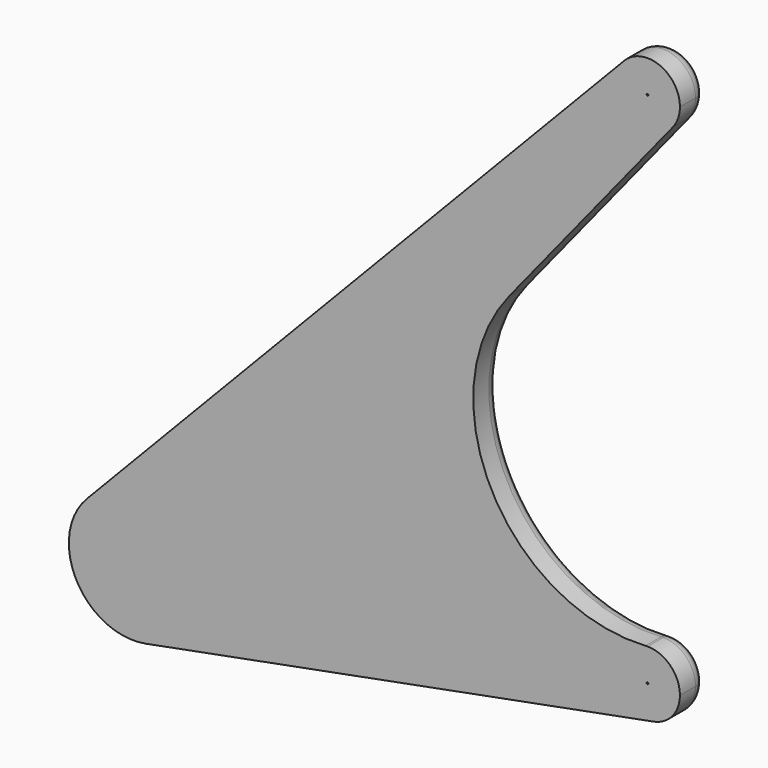
from build123d import *

# Parameters (mm, degrees)
F1_DEPTH = 25
F2_D     = 28
F2_DEPTH = 17
F2_TIP   = 8.4120486664
F3_D     = 28
F3_DEPTH = 17
F3_TIP   = 8.4120486664
F4_R     = 10
F5_DEPTH = 25


with BuildPart() as f1:
    # F0 (on Front) → F1 (new body)
    with BuildSketch(Plane.XZ):
        with BuildLine():
            Line((-279.2028378171, 167.9137703829), (54.3474347586, 546.1242293713))
            ThreePointArc((54.3474347586, 546.1242293713), (45.905243427, 563.8289204578), (52.8386613021, 582.1770647105))
            Line((52.8386613021, 582.1770647105), (-362.0687545083, 149.4799000496))
            ThreePointArc((-362.0687545083, 149.4799000496), (-347.0310263397, 160.2264674692), (-329.1166074138, 164.7757063423))
            Line((-329.1166074138, 164.7757063423), (-279.2028378171, 167.9137703829))
        make_face()
        with BuildLine():
            ThreePointArc((70.8833804527, 539.8742293713), (62.0445456879, 541.488870704), (54.3474347586, 546.1242293713))
            Line((54.3474347586, 546.1242293713), (-279.2028378171, 167.9137703829))
            Line((-279.2028378171, 167.9137703829), (-215.3865282422, 171.9258830303))
            Line((-215.3865282422, 171.9258830303), (-35.7808883073, 393.5494389695))
            Line((-35.7808883073, 393.5494389695), (70.8833804527, 525.16732437))
            Line((70.8833804527, 525.16732437), (70.8833804527, 539.8742293713))
        make_face()
        with BuildLine():
            Line((-215.3865282422, 171.9258830303), (-279.2028378171, 167.9137703829))
            Line((-279.2028378171, 167.9137703829), (-292.9074248186, 152.3742293713))
            ThreePointArc((-292.9074248186, 152.3742293713), (-281.7851423828, 138.2595880387), (-276.3714791245, 121.1242293713))
            Line((-276.3714791245, 121.1242293713), (-254.3034374995, 123.904541279))
            Line((-254.3034374995, 123.904541279), (-215.3865282422, 171.9258830303))
        make_face()
        with BuildLine():
            Line((-35.7808883073, 393.5494389695), (-215.3865282422, 171.9258830303))
            Line((-215.3865282422, 171.9258830303), (69.3147348493, 189.8249678568))
            ThreePointArc((69.3147348493, 189.8249678568), (-49.7750455866, 257.3601064033), (-35.7808883073, 393.5494389695))
        make_face()
        with BuildLine():
            Line((54.3474347586, 546.1242293713), (61.788610321, 554.5617293713))
            ThreePointArc((61.788610321, 554.5617293713), (65.226110321, 577.4064995031), (84.6333804527, 564.8742293713))
            ThreePointArc((84.6333804527, 564.8742293713), (80.6060986941, 555.15151113), (70.8833804527, 551.1242293713))
            Line((70.8833804527, 551.1242293713), (70.8833804527, 539.8742293713))
            ThreePointArc((70.8833804527, 539.8742293713), (81.64190304, 542.3075683037), (90.3060950779, 549.1338940322))
            ThreePointArc((90.3060950779, 549.1338940322), (94.4478437994, 556.5246145787), (95.8833804527, 564.8742293713))
            ThreePointArc((95.8833804527, 564.8742293713), (80.2075968068, 588.0703279524), (52.8386613021, 582.1770647105))
            ThreePointArc((52.8386613021, 582.1770647105), (45.905243427, 563.8289204578), (54.3474347586, 546.1242293713))
        make_face()
        with BuildLine():
            ThreePointArc((70.8833804527, 551.1242293713), (66.0220213321, 552.0122821043), (61.788610321, 554.5617293713))
            Line((61.788610321, 554.5617293713), (54.3474347586, 546.1242293713))
            ThreePointArc((54.3474347586, 546.1242293713), (62.0445456879, 541.488870704), (70.8833804527, 539.8742293713))
            Line((70.8833804527, 539.8742293713), (70.8833804527, 551.1242293713))
        make_face()
        with BuildLine():
            Line((70.8833804527, 551.1242293713), (70.8833804527, 564.8742293713))
            Line((70.8833804527, 564.8742293713), (61.788610321, 554.5617293713))
            ThreePointArc((61.788610321, 554.5617293713), (66.0220213321, 552.0122821043), (70.8833804527, 551.1242293713))
        make_face()
        with BuildLine():
            Line((61.788610321, 554.5617293713), (70.8833804527, 564.8742293713))
            Line((70.8833804527, 564.8742293713), (70.8833804527, 551.1242293713))
            ThreePointArc((70.8833804527, 551.1242293713), (80.6060986941, 555.15151113), (84.6333804527, 564.8742293713))
            ThreePointArc((84.6333804527, 564.8742293713), (65.226110321, 577.4064995031), (61.788610321, 554.5617293713))
        make_face()
        with BuildLine():
            Line((69.3147348493, 189.8249678568), (-215.3865282422, 171.9258830303))
            Line((-215.3865282422, 171.9258830303), (-254.3034374995, 123.904541279))
            Line((-254.3034374995, 123.904541279), (46.0794619115, 161.7492293713))
            ThreePointArc((46.0794619115, 161.7492293713), (51.6235827444, 180.8134951083), (69.3147348493, 189.8249678568))
        make_face()
        with BuildLine():
            Line((-325.9793162069, 114.8742293713), (-306.136181374, 137.3742293713))
            ThreePointArc((-306.136181374, 137.3742293713), (-353.3224510399, 102.5310945383), (-295.9793162069, 114.8742293713))
            ThreePointArc((-295.9793162069, 114.8742293713), (-296.0381984298, 116.7529167476), (-296.2146139575, 118.6242293713))
            Line((-296.2146139575, 118.6242293713), (-325.9793162069, 114.8742293713))
        make_face()
        with BuildLine():
            Line((-306.136181374, 137.3742293713), (-292.9074248186, 152.3742293713))
            ThreePointArc((-292.9074248186, 152.3742293713), (-309.7784140786, 162.1767744427), (-329.1166074138, 164.7757063423))
            ThreePointArc((-329.1166074138, 164.7757063423), (-347.0310263397, 160.2264674692), (-362.0687545083, 149.4799000496))
            ThreePointArc((-362.0687545083, 149.4799000496), (-369.9271571596, 91.0291612104), (-316.6410453648, 65.7540024004))
            ThreePointArc((-316.6410453648, 65.7540024004), (-300.3237958419, 71.9580986651), (-287.1338869566, 83.3935586931))
            ThreePointArc((-287.1338869566, 83.3935586931), (-278.8503895137, 98.1749997861), (-275.9793162069, 114.8742293713))
            ThreePointArc((-275.9793162069, 114.8742293713), (-276.0774532451, 118.0053749985), (-276.3714791245, 121.1242293713))
            Line((-276.3714791245, 121.1242293713), (-296.2146139575, 118.6242293713))
            ThreePointArc((-296.2146139575, 118.6242293713), (-296.0381984298, 116.7529167476), (-295.9793162069, 114.8742293713))
            ThreePointArc((-295.9793162069, 114.8742293713), (-353.3224510399, 102.5310945383), (-306.136181374, 137.3742293713))
        make_face()
        with BuildLine():
            ThreePointArc((-276.3714791245, 121.1242293713), (-281.7851423828, 138.2595880387), (-292.9074248186, 152.3742293713))
            Line((-292.9074248186, 152.3742293713), (-306.136181374, 137.3742293713))
            ThreePointArc((-306.136181374, 137.3742293713), (-299.4628119124, 128.9054445717), (-296.2146139575, 118.6242293713))
            Line((-296.2146139575, 118.6242293713), (-276.3714791245, 121.1242293713))
        make_face()
        with BuildLine():
            Line((-292.9074248186, 152.3742293713), (-279.2028378171, 167.9137703829))
            Line((-279.2028378171, 167.9137703829), (-329.1166074138, 164.7757063423))
            ThreePointArc((-329.1166074138, 164.7757063423), (-309.7784140786, 162.1767744427), (-292.9074248186, 152.3742293713))
        make_face()
        with BuildLine():
            Line((-254.3034374995, 123.904541279), (-276.3714791245, 121.1242293713))
            ThreePointArc((-276.3714791245, 121.1242293713), (-276.0774532451, 118.0053749985), (-275.9793162069, 114.8742293713))
            ThreePointArc((-275.9793162069, 114.8742293713), (-278.8503895137, 98.1749997861), (-287.1338869566, 83.3935586931))
            Line((-287.1338869566, 83.3935586931), (-254.3034374995, 123.904541279))
        make_face()
        with BuildLine():
            Line((46.0794619115, 161.7492293713), (-254.3034374995, 123.904541279))
            Line((-254.3034374995, 123.904541279), (-287.1338869566, 83.3935586931))
            ThreePointArc((-287.1338869566, 83.3935586931), (-300.3237958419, 71.9580986651), (-316.6410453648, 65.7540024004))
            Line((-316.6410453648, 65.7540024004), (75.5525158738, 140.3141158858))
            ThreePointArc((75.5525158738, 140.3141158858), (56.1790139122, 144.6558811539), (46.0794619115, 161.7492293713))
        make_face()
        with BuildLine():
            ThreePointArc((-296.2146139575, 118.6242293713), (-299.4628119124, 128.9054445717), (-306.136181374, 137.3742293713))
            Line((-306.136181374, 137.3742293713), (-325.9793162069, 114.8742293713))
            Line((-325.9793162069, 114.8742293713), (-296.2146139575, 118.6242293713))
        make_face()
        with BuildLine():
            ThreePointArc((70.8833804527, 189.8742293713), (70.098670996, 189.8619109578), (69.3147348493, 189.8249678568))
            ThreePointArc((69.3147348493, 189.8249678568), (51.6235827444, 180.8134951083), (46.0794619115, 161.7492293713))
            Line((46.0794619115, 161.7492293713), (57.2412252551, 163.1554793713))
            ThreePointArc((57.2412252551, 163.1554793713), (60.5708804527, 173.9689995031), (70.8833804527, 178.6242293713))
            Line((70.8833804527, 178.6242293713), (70.8833804527, 189.8742293713))
        make_face()
        with BuildLine():
            ThreePointArc((70.8833804527, 178.6242293713), (60.5708804527, 173.9689995031), (57.2412252551, 163.1554793713))
            Line((57.2412252551, 163.1554793713), (70.8833804527, 164.8742293713))
            Line((70.8833804527, 164.8742293713), (70.8833804527, 178.6242293713))
        make_face()
        with BuildLine():
            Line((70.8833804527, 164.8742293713), (57.2412252551, 163.1554793713))
            ThreePointArc((57.2412252551, 163.1554793713), (71.7444455002, 151.1512170568), (84.6333804527, 164.8742293713))
            ThreePointArc((84.6333804527, 164.8742293713), (80.6060986941, 174.5969476126), (70.8833804527, 178.6242293713))
            Line((70.8833804527, 178.6242293713), (70.8833804527, 164.8742293713))
        make_face()
        with BuildLine():
            Line((57.2412252551, 163.1554793713), (46.0794619115, 161.7492293713))
            ThreePointArc((46.0794619115, 161.7492293713), (56.1790139122, 144.6558811539), (75.5525158738, 140.3141158858))
            ThreePointArc((75.5525158738, 140.3141158858), (90.1412150341, 148.9325918382), (95.8833804527, 164.8742293713))
            ThreePointArc((95.8833804527, 164.8742293713), (88.5610499824, 182.551898901), (70.8833804527, 189.8742293713))
            Line((70.8833804527, 189.8742293713), (70.8833804527, 178.6242293713))
            ThreePointArc((70.8833804527, 178.6242293713), (80.6060986941, 174.5969476126), (84.6333804527, 164.8742293713))
            ThreePointArc((84.6333804527, 164.8742293713), (71.7444455002, 151.1512170568), (57.2412252551, 163.1554793713))
        make_face()
        with BuildLine():
            ThreePointArc((90.3060950779, 549.1338940322), (81.64190304, 542.3075683037), (70.8833804527, 539.8742293713))
            Line((70.8833804527, 539.8742293713), (70.8833804527, 525.16732437))
            Line((70.8833804527, 525.16732437), (90.3060950779, 549.1338940322))
        make_face()
    extrude(amount=F1_DEPTH)

    # F2
    with Locations(Plane(origin=(0, 0, 0), x_dir=(1, 0, 0), z_dir=(0, 1, 0))):
        with Locations((70.8833804527, -564.8742293713)):
            Hole(F2_D / 2, depth=F2_DEPTH)
            with Locations((0, 0, -(F2_DEPTH + F2_TIP / 2))):  # 118° drill point
                Cone(0, F2_D / 2, F2_TIP, mode=Mode.SUBTRACT)

    # F3
    with Locations(Plane(origin=(0, 0, 0), x_dir=(1, 0, 0), z_dir=(0, 1, 0))):
        with Locations((70.8833804527, -164.8742293713)):
            Hole(F3_D / 2, depth=F3_DEPTH)
            with Locations((0, 0, -(F3_DEPTH + F3_TIP / 2))):  # 118° drill point
                Cone(0, F3_D / 2, F3_TIP, mode=Mode.SUBTRACT)

    # F4
    f4_edges = [f1.edges().sort_by_distance(p)[0] for p in [
        (-49.775046, 0, 257.360106),
        (95.687299, 0, 167.999229),
    ]]
    fillet(f4_edges, radius=F4_R)

    # F0 (on Front) → F5 (join)
    with BuildSketch(Plane.XZ):
        with BuildLine():
            Line((-325.9793162069, 114.8742293713), (-306.136181374, 137.3742293713))
            ThreePointArc((-306.136181374, 137.3742293713), (-353.3224510399, 102.5310945383), (-295.9793162069, 114.8742293713))
            ThreePointArc((-295.9793162069, 114.8742293713), (-296.0381984298, 116.7529167476), (-296.2146139575, 118.6242293713))
            Line((-296.2146139575, 118.6242293713), (-325.9793162069, 114.8742293713))
        make_face()
        with BuildLine():
            ThreePointArc((-296.2146139575, 118.6242293713), (-299.4628119124, 128.9054445717), (-306.136181374, 137.3742293713))
            Line((-306.136181374, 137.3742293713), (-325.9793162069, 114.8742293713))
            Line((-325.9793162069, 114.8742293713), (-296.2146139575, 118.6242293713))
        make_face()
    extrude(amount=F5_DEPTH)


solid = f1.part
